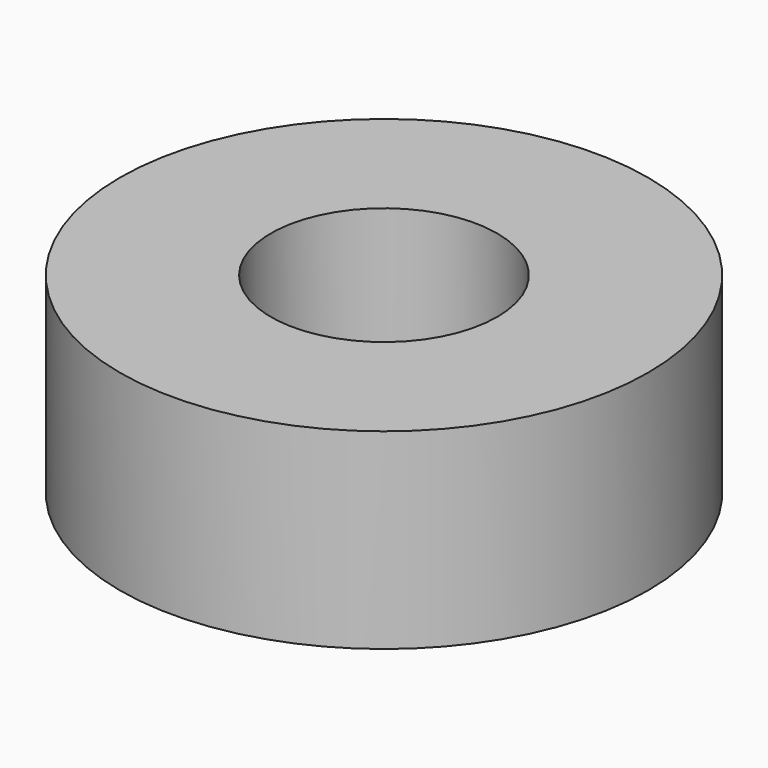
from build123d import *

# Parameters (mm, degrees)
SKETCH_R    = 3.5
PAD_DEPTH   = 2.54
SKETCH001_R = 1.5
HOLE_DEPTH  = 2.541


with BuildPart() as part:
    # Sketch → Pad (new body)
    with BuildSketch(Plane.XY):
        Circle(SKETCH_R)
    extrude(amount=PAD_DEPTH)

    # Sketch001 (on Face3 of Pad) → Hole (cut, through all)
    with BuildSketch(Plane.XY.offset(2.54)):
        Circle(SKETCH001_R)
    extrude(amount=-HOLE_DEPTH, mode=Mode.SUBTRACT)


solid = part.part
